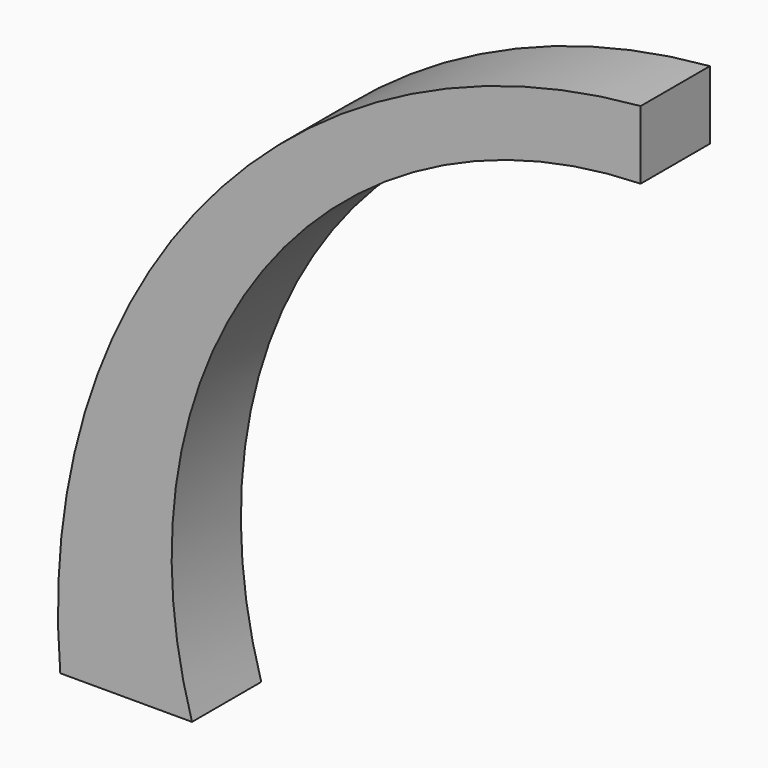
from build123d import *

# Parameters (mm, degrees)
F1_DEPTH = 7.62


with BuildPart() as f1:
    # F0 (on Front) → F1 (new body)
    with BuildSketch(Plane.XZ):
        with BuildLine():
            ThreePointArc((-42.887431, 0), (-36.627943, 37.057765), (-3.376741, 54.573948))
            Line((-3.376741, 54.573948), (-3.376741, 60.593739))
            ThreePointArc((-3.376741, 60.593739), (-41.505838, 40.902641), (-54.488182, 0))
            Line((-54.488182, 0), (-42.887431, 0))
        make_face()
    extrude(amount=-F1_DEPTH)


solid = f1.part
